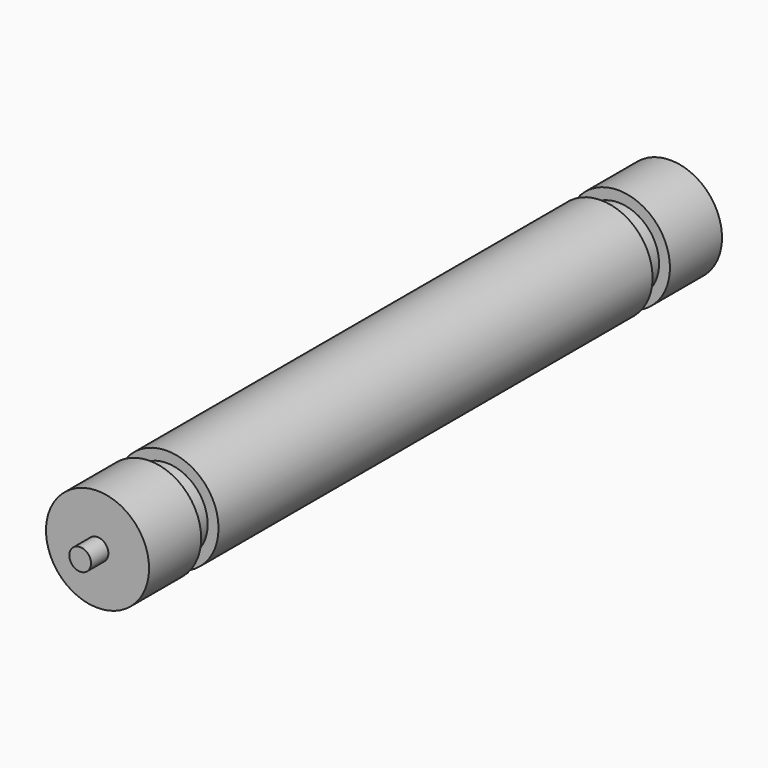
from build123d import *

# Parameters (mm, degrees)
F0_R      = 4.75
F1_DEPTH  = 50
F2_R      = 3.75
F3_DEPTH  = 2
F4_R      = 3.75
F5_DEPTH  = 2
F6_R      = 4.75
F6_R_2    = 3.75
F7_DEPTH  = 6
F8_R      = 4.75
F8_R_2    = 3.75
F9_DEPTH  = 6
F10_R     = 1
F11_DEPTH = 2
F12_R     = 1
F13_DEPTH = 2


with BuildPart() as f1:
    # F0 (on Front) → F1 (new body)
    with BuildSketch(Plane.XZ):
        Circle(F0_R)
        Circle(F0_R)
    extrude(amount=F1_DEPTH)

    # F2 (on face) → F3 (join)
    with BuildSketch(Plane.XZ.offset(50)):
        Circle(F2_R)
    extrude(amount=F3_DEPTH)

    # F4 (on face) → F5 (join)
    with BuildSketch(Plane(origin=(0, 0, 0), x_dir=(-1, 0, 0), z_dir=(0, 1, 0))):
        Circle(F4_R)
    extrude(amount=F5_DEPTH)

    # F8 (on face) → F9 (join)
    with BuildSketch(Plane(origin=(0, 2, 0), x_dir=(-1, 0, 0), z_dir=(0, 1, 0))):
        Circle(F8_R)
        Circle(F8_R_2, mode=Mode.SUBTRACT)
        Circle(F8_R_2)
    extrude(amount=F9_DEPTH)

    # F10 (on face) → F11 (join)
    with BuildSketch(Plane(origin=(0, 8, 0), x_dir=(-1, 0, 0), z_dir=(0, 1, 0))):
        Circle(F10_R)
    extrude(amount=F11_DEPTH)


with BuildPart() as f7:
    # F6 (on face) → F7 (new body)
    with BuildSketch(Plane.XZ.offset(52)):
        Circle(F6_R)
        Circle(F6_R_2, mode=Mode.SUBTRACT)
        Circle(F6_R_2)
    extrude(amount=F7_DEPTH)

    # F12 (on face) → F13 (join)
    with BuildSketch(Plane.XZ.offset(58)):
        Circle(F12_R)
    extrude(amount=F13_DEPTH)


solid = Compound([f1.part, f7.part])
